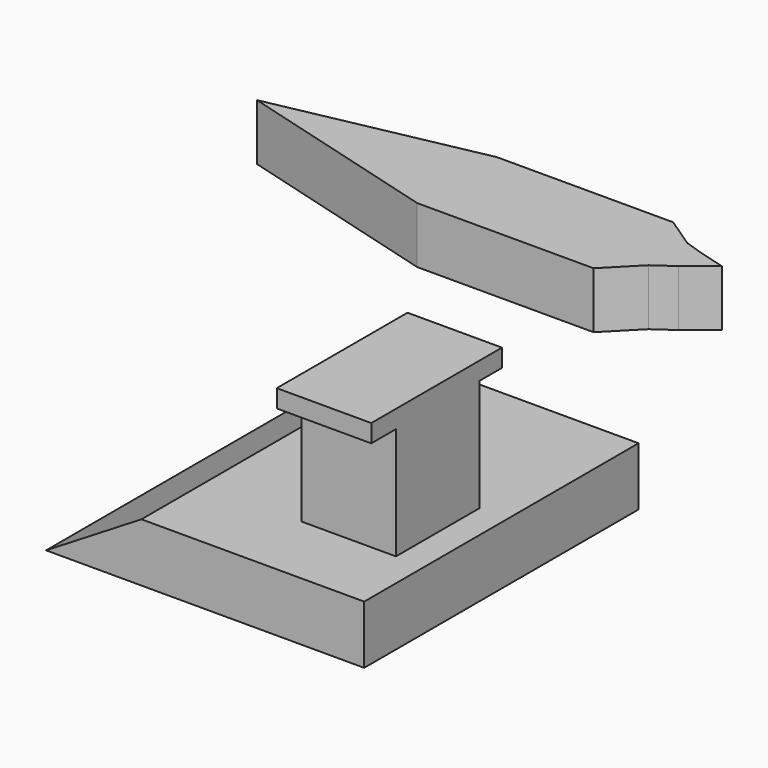
from build123d import *

# Parameters (mm, degrees)
F1_DEPTH = 25.4
F2_W     = 45.97038
F2_H     = 13.153464
F3_DEPTH = 154.667571
F4_W     = 47.042668
F4_H     = 50.542254
F5_DEPTH = 42.62463


with BuildPart() as f1:
    # F0 (on Top) → F1 (new body)
    with BuildSketch(Plane.XY):
        Polygon((50.7957, 18.831089), (-28.742667, 18.831089), (-28.742667, -26.074188), (50.7957, -26.074188), (50.7957, -12.194522), (50.7957, 9.640401), align=None)
        Polygon((-28.742667, -26.074188), (-28.742667, 18.831089), (-121.829979, 0), align=None)
        Polygon((64.452626, 9.640401), (50.7957, 9.640401), (50.7957, -12.194522), (64.452626, -12.194522), (64.452626, 0), align=None)
        Polygon((50.7957, -12.194522), (50.7957, -26.074188), (64.452626, -12.194522), align=None)
        Polygon((64.452626, 9.640401), (50.7957, 18.831089), (50.7957, 9.640401), align=None)
        Polygon((73.125139, 6.751092), (64.452626, 9.640401), (64.452626, 0), (64.452626, -12.194522), (68.788882, -6.097261), (73.125139, 0), align=None)
        Polygon((73.125139, -6.097261), (73.125139, 0), (68.788882, -6.097261), align=None)
        Polygon((68.788882, -6.097261), (64.452626, -12.194522), (73.125139, -6.097261), align=None)
        Polygon((85.136034, 3.375546), (73.125139, 0), (73.125139, -6.097261), align=None)
        Polygon((85.136034, 3.375546), (73.125139, 6.751092), (73.125139, 0), align=None)
    extrude(amount=F1_DEPTH)


with BuildPart() as f3:
    # F2 (on Front) → F3 (new body)
    with BuildSketch(Plane.XZ):
        Polygon((50.233737, -54.863125), (22.98519, -54.863125), (22.98519, -68.016589), (-22.98519, -68.016589), (-22.98519, -54.863125), (-50.233737, -54.863125), (-50.233737, -81.170052), (50.233737, -81.170052), (50.233737, -55.656421), align=None)
        Polygon((-50.233737, -81.170052), (-50.233737, -54.863125), (-93.23705, -81.170052), align=None)
        with Locations((0, -61.439857)):
            Rectangle(F2_W, F2_H)
    extrude(amount=F3_DEPTH)


with BuildPart() as f5:
    # F4 (on Right) → F5 (new body)
    with BuildSketch(Plane.YZ):
        with Locations((-103.730023, -25.271127)):
            Rectangle(F4_W, F4_H)
        Polygon((-127.251357, 0), (-80.208689, 0), (-67.474343, 0), (-67.474343, 8.06065), (-141.169086, 8.06065), (-141.169086, 0), align=None)
    extrude(amount=F5_DEPTH)


solid = Compound([f1.part, f3.part, f5.part])
